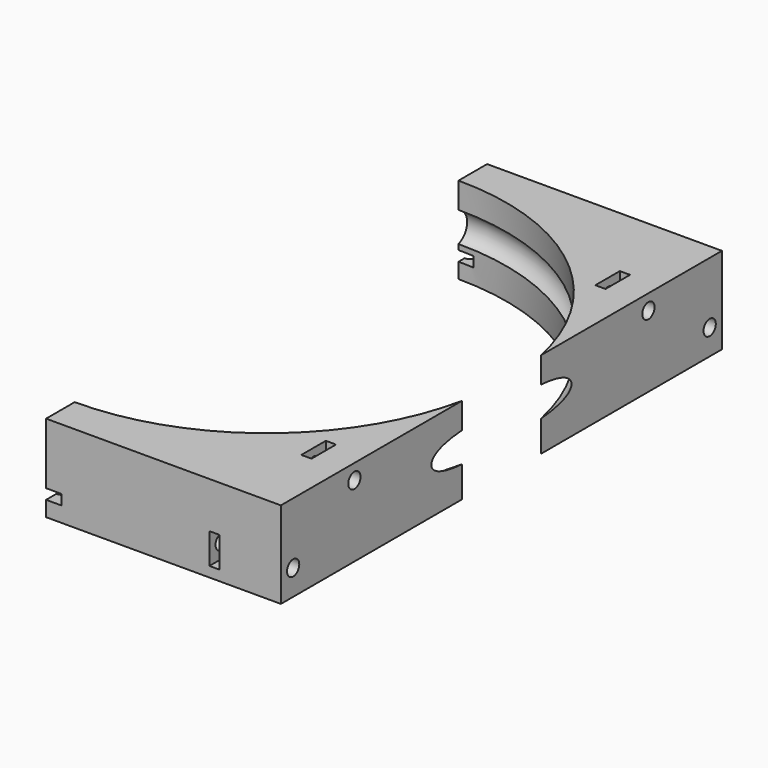
from build123d import *

# Parameters (mm, degrees)
BOX178_W                    = 2
BOX178_H                    = 6
BOX178_DEPTH                = 6
BOX179_W                    = 2
BOX179_H                    = 6
BOX179_DEPTH                = 6
BOX180_W                    = 2
BOX180_H                    = 6
BOX180_DEPTH                = 6
BOX177_W                    = 2
BOX177_H                    = 6
BOX177_DEPTH                = 6
CYLINDER392_R               = 1.5
CYLINDER392_DEPTH           = 100
CYLINDER393_R               = 1.5
CYLINDER393_DEPTH           = 100
CYLINDER394_R               = 1.5
CYLINDER394_DEPTH           = 100
CYLINDER391_R               = 1.5
CYLINDER391_DEPTH           = 100
BOX171_W                    = 8
BOX171_H                    = 6
BOX171_DEPTH                = 2
BOX171_PLACEMENT_ANGLE      = 45
BOX165_W                    = 8
BOX165_H                    = 6
BOX165_DEPTH                = 2
BOX166_W                    = 8
BOX166_H                    = 6
BOX166_DEPTH                = 2
BOX166_PLACEMENT_ANGLE      = 135
BOX168_W                    = 8
BOX168_H                    = 6
BOX168_DEPTH                = 2
BOX169_W                    = 8
BOX169_H                    = 6
BOX169_DEPTH                = 2
BOX169_PLACEMENT_ANGLE      = 225
BOX172_W                    = 8
BOX172_H                    = 6
BOX172_DEPTH                = 2
BOX170_W                    = 8
BOX170_H                    = 6
BOX170_DEPTH                = 2
BOX170_PLACEMENT_ANGLE      = 45
BOX167_W                    = 8
BOX167_H                    = 6
BOX167_DEPTH                = 2
CYLINDER375_R               = 1.5
CYLINDER375_DEPTH           = 50
CYLINDER375_PLACEMENT_ANGLE = 45
CYLINDER376_R               = 1.5
CYLINDER376_DEPTH           = 50
CYLINDER377_R               = 1.5
CYLINDER377_DEPTH           = 50
CYLINDER377_PLACEMENT_ANGLE = 135
CYLINDER378_R               = 1.5
CYLINDER378_DEPTH           = 50
CYLINDER379_R               = 1.5
CYLINDER379_DEPTH           = 50
CYLINDER379_PLACEMENT_ANGLE = 225
CYLINDER380_R               = 1.5
CYLINDER380_DEPTH           = 50
CYLINDER381_R               = 1.5
CYLINDER381_DEPTH           = 50
CYLINDER381_PLACEMENT_ANGLE = 45
CYLINDER374_R               = 1.5
CYLINDER374_DEPTH           = 50
TORUS005_R                  = 3.1
CYLINDER_R                  = 47
CYLINDER_DEPTH              = 17
BOX156_W                    = 46
BOX156_H                    = 108
BOX156_DEPTH                = 17


with BuildPart() as krychle178:
    # Box178 → Box178 (new body)
    with BuildSketch(Plane(origin=(32, -54, 22), x_dir=(1, 0, 0), z_dir=(0, 0, 1))):
        with Locations((1, 3)):
            Rectangle(BOX178_W, BOX178_H)
    extrude(amount=BOX178_DEPTH)


with BuildPart() as krychle179:
    # Box179 → Box179 (new body)
    with BuildSketch(Plane(origin=(38, 33, 31), x_dir=(1, 0, 0), z_dir=(0, 0, 1))):
        with Locations((1, 3)):
            Rectangle(BOX179_W, BOX179_H)
    extrude(amount=BOX179_DEPTH)


with BuildPart() as krychle180:
    # Box180 → Box180 (new body)
    with BuildSketch(Plane(origin=(38, -39, 31), x_dir=(1, 0, 0), z_dir=(0, 0, 1))):
        with Locations((1, 3)):
            Rectangle(BOX180_W, BOX180_H)
    extrude(amount=BOX180_DEPTH)


with BuildPart() as compound304:
    # Box177 → Box177 (new body)
    with BuildSketch(Plane(origin=(32, 48, 22), x_dir=(1, 0, 0), z_dir=(0, 0, 1))):
        with Locations((1, 3)):
            Rectangle(BOX177_W, BOX177_H)
    extrude(amount=BOX177_DEPTH)

    # Compound304: union Krychle178, Krychle179, Krychle180
    add(krychle178.part)
    add(krychle179.part)
    add(krychle180.part)


with BuildPart() as obj1:
    # Cylinder392 → Cylinder392 (new body)
    with BuildSketch(Plane(origin=(24, -51, 25), x_dir=(0, 0, -1), z_dir=(1, 0, 0))):
        Circle(CYLINDER392_R)
    extrude(amount=CYLINDER392_DEPTH)


with BuildPart() as obj2:
    # Cylinder393 → Cylinder393 (new body)
    with BuildSketch(Plane(origin=(34, 36, 34), x_dir=(0, 0, -1), z_dir=(1, 0, 0))):
        Circle(CYLINDER393_R)
    extrude(amount=CYLINDER393_DEPTH)


with BuildPart() as obj3:
    # Cylinder394 → Cylinder394 (new body)
    with BuildSketch(Plane(origin=(34, -36, 34), x_dir=(0, 0, -1), z_dir=(1, 0, 0))):
        Circle(CYLINDER394_R)
    extrude(amount=CYLINDER394_DEPTH)


with BuildPart() as compound301:
    # Cylinder391 → Cylinder391 (new body)
    with BuildSketch(Plane(origin=(24, 51, 25), x_dir=(0, 0, -1), z_dir=(1, 0, 0))):
        Circle(CYLINDER391_R)
    extrude(amount=CYLINDER391_DEPTH)

    # Compound301: union obj1, obj2, obj3
    add(obj1.part)
    add(obj2.part)
    add(obj3.part)


with BuildPart() as krychle171:
    # Box171 → Box171 (new body)
    with BuildSketch(Plane.XY):
        with Locations((4, 3)):
            Rectangle(BOX171_W, BOX171_H)
    extrude(amount=BOX171_DEPTH)


with BuildPart() as krychle171_1:
    # Box171 placement: moved
    add(krychle171.part.moved(Location((34.648232, 30.405592, 23))).rotate(Axis((34.648232, 30.405592, 23), (0, 0, 1)), BOX171_PLACEMENT_ANGLE))


with BuildPart() as krychle165:
    # Box165 → Box165 (new body)
    with BuildSketch(Plane(origin=(3, 46, 23), x_dir=(0, 1, 0), z_dir=(0, 0, 1))):
        with Locations((4, 3)):
            Rectangle(BOX165_W, BOX165_H)
    extrude(amount=BOX165_DEPTH)


with BuildPart() as krychle166:
    # Box166 → Box166 (new body)
    with BuildSketch(Plane.XY):
        with Locations((4, 3)):
            Rectangle(BOX166_W, BOX166_H)
    extrude(amount=BOX166_DEPTH)


with BuildPart() as krychle166_1:
    # Box166 placement: moved
    add(krychle166.part.moved(Location((-30.405592, 34.648232, 23))).rotate(Axis((-30.405592, 34.648232, 23), (0, 0, 1)), BOX166_PLACEMENT_ANGLE))


with BuildPart() as krychle168:
    # Box168 → Box168 (new body)
    with BuildSketch(Plane(origin=(-46, 3, 23), x_dir=(-1, 0, 0), z_dir=(0, 0, 1))):
        with Locations((4, 3)):
            Rectangle(BOX168_W, BOX168_H)
    extrude(amount=BOX168_DEPTH)


with BuildPart() as krychle169:
    # Box169 → Box169 (new body)
    with BuildSketch(Plane.XY):
        with Locations((4, 3)):
            Rectangle(BOX169_W, BOX169_H)
    extrude(amount=BOX169_DEPTH)


with BuildPart() as krychle169_1:
    # Box169 placement: moved
    add(krychle169.part.moved(Location((-34.648232, -30.405592, 23))).rotate(Axis((-34.648232, -30.405592, 23), (0, 0, 1)), BOX169_PLACEMENT_ANGLE))


with BuildPart() as krychle172:
    # Box172 → Box172 (new body)
    with BuildSketch(Plane(origin=(-3, -46, 23), x_dir=(0, -1, 0), z_dir=(0, 0, 1))):
        with Locations((4, 3)):
            Rectangle(BOX172_W, BOX172_H)
    extrude(amount=BOX172_DEPTH)


with BuildPart() as krychle170:
    # Box170 → Box170 (new body)
    with BuildSketch(Plane.XY):
        with Locations((4, 3)):
            Rectangle(BOX170_W, BOX170_H)
    extrude(amount=BOX170_DEPTH)


with BuildPart() as krychle170_1:
    # Box170 placement: moved
    add(krychle170.part.moved(Location((30.405592, -34.648232, 23))).rotate(Axis((30.405592, -34.648232, 23), (0, 0, -1)), BOX170_PLACEMENT_ANGLE))


with BuildPart() as compound300:
    # Box167 → Box167 (new body)
    with BuildSketch(Plane(origin=(46, -3, 23), x_dir=(1, 0, 0), z_dir=(0, 0, 1))):
        with Locations((4, 3)):
            Rectangle(BOX167_W, BOX167_H)
    extrude(amount=BOX167_DEPTH)

    # Compound300: union Krychle171, Krychle165, Krychle166, Krychle168, Krychle169, Krychle172, Krychle170
    add(krychle171_1.part)
    add(krychle165.part)
    add(krychle166_1.part)
    add(krychle168.part)
    add(krychle169_1.part)
    add(krychle172.part)
    add(krychle170_1.part)


with BuildPart() as obj4:
    # Cylinder375 → Cylinder375 (new body)
    with BuildSketch(Plane.XY):
        Circle(CYLINDER375_R)
    extrude(amount=CYLINDER375_DEPTH)


with BuildPart() as obj4_1:
    # Cylinder375 placement: moved
    add(obj4.part.moved(Location((35.355339, 35.355339, -15))).rotate(Axis((35.355339, 35.355339, -15), (0, 0, 1)), CYLINDER375_PLACEMENT_ANGLE))


with BuildPart() as obj5:
    # Cylinder376 → Cylinder376 (new body)
    with BuildSketch(Plane(origin=(0, 50, -15), x_dir=(0, 1, 0), z_dir=(0, 0, 1))):
        Circle(CYLINDER376_R)
    extrude(amount=CYLINDER376_DEPTH)


with BuildPart() as obj6:
    # Cylinder377 → Cylinder377 (new body)
    with BuildSketch(Plane.XY):
        Circle(CYLINDER377_R)
    extrude(amount=CYLINDER377_DEPTH)


with BuildPart() as obj6_1:
    # Cylinder377 placement: moved
    add(obj6.part.moved(Location((-35.355339, 35.355339, -15))).rotate(Axis((-35.355339, 35.355339, -15), (0, 0, 1)), CYLINDER377_PLACEMENT_ANGLE))


with BuildPart() as obj7:
    # Cylinder378 → Cylinder378 (new body)
    with BuildSketch(Plane(origin=(-50, 0, -15), x_dir=(-1, 0, 0), z_dir=(0, 0, 1))):
        Circle(CYLINDER378_R)
    extrude(amount=CYLINDER378_DEPTH)


with BuildPart() as obj8:
    # Cylinder379 → Cylinder379 (new body)
    with BuildSketch(Plane.XY):
        Circle(CYLINDER379_R)
    extrude(amount=CYLINDER379_DEPTH)


with BuildPart() as obj8_1:
    # Cylinder379 placement: moved
    add(obj8.part.moved(Location((-35.355339, -35.355339, -15))).rotate(Axis((-35.355339, -35.355339, -15), (0, 0, 1)), CYLINDER379_PLACEMENT_ANGLE))


with BuildPart() as obj9:
    # Cylinder380 → Cylinder380 (new body)
    with BuildSketch(Plane(origin=(0, -50, -15), x_dir=(0, -1, 0), z_dir=(0, 0, 1))):
        Circle(CYLINDER380_R)
    extrude(amount=CYLINDER380_DEPTH)


with BuildPart() as obj10:
    # Cylinder381 → Cylinder381 (new body)
    with BuildSketch(Plane.XY):
        Circle(CYLINDER381_R)
    extrude(amount=CYLINDER381_DEPTH)


with BuildPart() as obj10_1:
    # Cylinder381 placement: moved
    add(obj10.part.moved(Location((35.355339, -35.355339, -15))).rotate(Axis((35.355339, -35.355339, -15), (0, 0, -1)), CYLINDER381_PLACEMENT_ANGLE))


with BuildPart() as compound298:
    # Cylinder374 → Cylinder374 (new body)
    with BuildSketch(Plane(origin=(50, 0, -15), x_dir=(1, 0, 0), z_dir=(0, 0, 1))):
        Circle(CYLINDER374_R)
    extrude(amount=CYLINDER374_DEPTH)

    # Compound298: union obj4, obj5, obj6, obj7, obj8, obj9, obj10
    add(obj4_1.part)
    add(obj5.part)
    add(obj6_1.part)
    add(obj7.part)
    add(obj8_1.part)
    add(obj9.part)
    add(obj10_1.part)


with BuildPart() as compound298_1:
    # Compound298 placement: moved
    add(compound298.part.moved(Location((0, 0, -9))))


with BuildPart() as obj11:
    # Torus005 → Torus005 (revolve)
    with BuildSketch(Plane(origin=(0, 0, 29), x_dir=(1, 0, 0), z_dir=(0, -1, 0))):
        with Locations((46, 0)):
            Circle(TORUS005_R)
    revolve(axis=Axis((0, 0, 29), (0, 0, 1)))


with BuildPart() as obj12:
    # Cylinder → Cylinder (new body)
    with BuildSketch(Plane.XY.offset(20)):
        Circle(CYLINDER_R)
    extrude(amount=CYLINDER_DEPTH)


with BuildPart() as cut158:
    # Box156 → Box156 (new body)
    with BuildSketch(Plane(origin=(0, -54, 20), x_dir=(1, 0, 0), z_dir=(0, 0, 1))):
        with Locations((23, 54)):
            Rectangle(BOX156_W, BOX156_H)
    extrude(amount=BOX156_DEPTH)

    # Cut153: cut obj12
    add(obj12.part, mode=Mode.SUBTRACT)

    # Cut154: cut obj11
    add(obj11.part, mode=Mode.SUBTRACT)

    # Cut155: cut Compound298
    add(compound298_1.part, mode=Mode.SUBTRACT)

    # Cut156: cut Compound300
    add(compound300.part, mode=Mode.SUBTRACT)

    # Cut157: cut Compound301
    add(compound301.part, mode=Mode.SUBTRACT)

    # Cut158: cut Compound304
    add(compound304.part, mode=Mode.SUBTRACT)


solid = cut158.part
